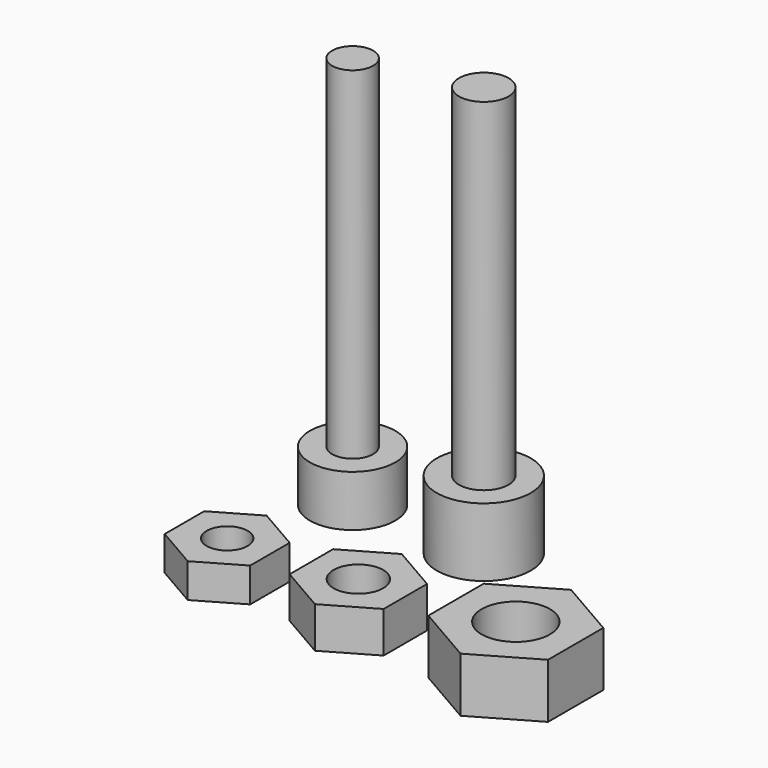
from build123d import *

# Parameters (mm, degrees)
F0_R     = 1.2
F1_DEPTH = 2
F2_DEPTH = 23
F0_R_2   = 2.5
F3_DEPTH = 3
F0_R_3   = 1.45
F4_DEPTH = 2.4
F5_DEPTH = 24
F0_R_4   = 2.75
F6_DEPTH = 4
F0_R_5   = 2
F7_DEPTH = 3.2


with BuildPart() as f1:
    # F0 (on Top) → F1 (new body)
    with BuildSketch(Plane.XY):
        Polygon((2.5, -10.614515), (2.5, -7.727764), (0, -6.284388), (-2.5, -7.727764), (-2.5, -10.614515), (0, -12.057891), align=None)
        with Locations((0, -9.17114)):
            Circle(F0_R, mode=Mode.SUBTRACT)
    extrude(amount=F1_DEPTH)


with BuildPart() as f2:
    # F0 (on Top) → F2 (new body)
    with BuildSketch(Plane.XY):
        Circle(F0_R)
    extrude(amount=F2_DEPTH)

    # F0 (on Top) → F3 (join)
    with BuildSketch(Plane.XY):
        Circle(F0_R_2)
        Circle(F0_R, mode=Mode.SUBTRACT)
    extrude(amount=F3_DEPTH)


with BuildPart() as f4:
    # F0 (on Top) → F4 (new body)
    with BuildSketch(Plane.XY):
        Polygon((10.422505, -10.758853), (10.422505, -7.583427), (7.672505, -5.995713), (4.922505, -7.583427), (4.922505, -10.758853), (7.672505, -12.346566), align=None)
        with Locations((7.672505, -9.17114)):
            Circle(F0_R_3, mode=Mode.SUBTRACT)
    extrude(amount=F4_DEPTH)


with BuildPart() as f5:
    # F0 (on Top) → F5 (new body)
    with BuildSketch(Plane.XY):
        with Locations((7.672505, 0)):
            Circle(F0_R_3)
    extrude(amount=F5_DEPTH)

    # F0 (on Top) → F6 (join)
    with BuildSketch(Plane.XY):
        with Locations((7.672505, 0)):
            Circle(F0_R_4)
        with Locations((7.672505, 0)):
            Circle(F0_R_3, mode=Mode.SUBTRACT)
    extrude(amount=F6_DEPTH)


with BuildPart() as f7:
    # F0 (on Top) → F7 (new body)
    with BuildSketch(Plane.XY):
        Polygon((20.38488, -11.191866), (20.38488, -7.150414), (16.88488, -5.129688), (13.38488, -7.150414), (13.38488, -11.191866), (16.88488, -13.212592), align=None)
        with Locations((16.88488, -9.17114)):
            Circle(F0_R_5, mode=Mode.SUBTRACT)
    extrude(amount=F7_DEPTH)


solid = Compound([f1.part, f2.part, f4.part, f5.part, f7.part])
